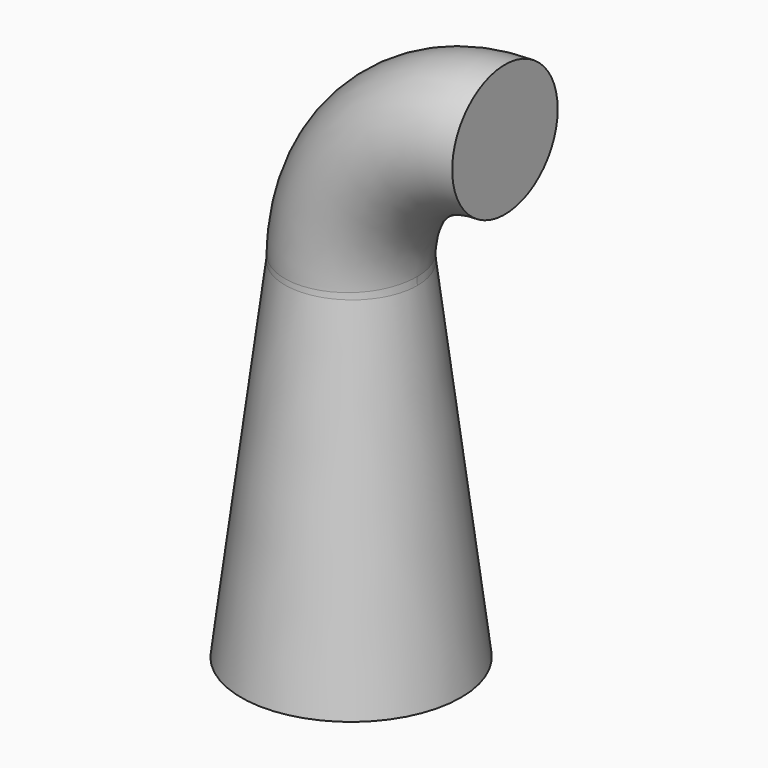
from build123d import *

# Parameters (mm, degrees)
F0_R = 2.5
F2_R = 1.5
F5_R = 1.5
F8_R = 1


with BuildPart() as f3:
    # F0 (on Top) → F3 section 0
    with BuildSketch(Plane.XY):
        Circle(F0_R)
    # F2 (on offset) → F3 section 1
    with BuildSketch(Plane.XY.offset(8)):
        Circle(F2_R)
    loft()

    # F7: sweep along a path in F6
    with BuildLine(Plane.XZ) as f7_path:
        ThreePointArc((3.5, 10.7476860285), (1.5570925767, 9.9429074233), (0.7523139715, 8))
    # F5 (on offset) → F7 (sweep)
    with BuildSketch(Plane.YZ.offset(3.5)):
        with Locations((0, 11.5)):
            Circle(F5_R)
    sweep(path=f7_path.line)

    # F8
    f8_edges = [f3.edges().sort_by_distance(p)[0] for p in [
        (-1.06066, -1.06066, 8),
    ]]
    fillet(f8_edges, radius=F8_R)


solid = f3.part
